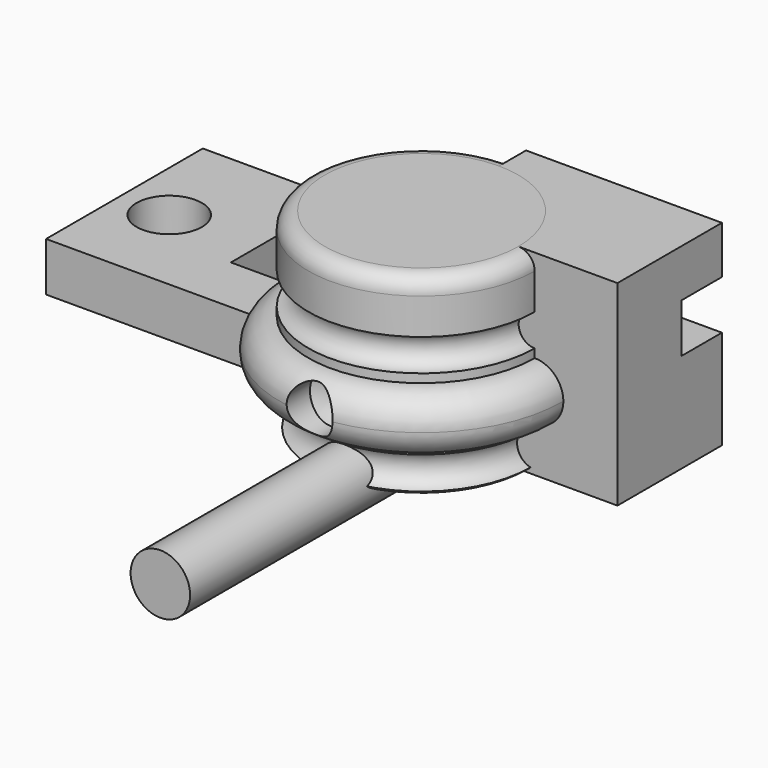
from build123d import *

# Parameters (mm, degrees)
F0_R        = 12.7
F1_DEPTH    = 76.2
F2_W        = 25.4
F2_H        = 25.4
F3_DEPTH    = 76.2
F5_DEPTH    = 76.2
F6_W        = 146.05
F6_H        = 76.2
F6_R        = 12.7
F6_W_2      = 25.4
F6_H_2      = 25.4
F7_DEPTH    = 19.05
F9_DEPTH    = 76.2
F13_D       = 17.85874
F13_DEPTH   = 55.1653280226
F13_2_D     = 17.85874
F13_2_DEPTH = 55.1653280226
F14_R       = 11.5704161796
F15_DEPTH   = 127


with BuildPart() as f1:
    # F0 (on Top) → F1 (new body)
    with BuildSketch(Plane.XY):
        Circle(F0_R)
    extrude(amount=F1_DEPTH)


with BuildPart() as f3:
    # F2 (on Top) → F3 (new body)
    with BuildSketch(Plane.XY):
        with Locations((12.7, 12.7)):
            Rectangle(F2_W, F2_H)
    extrude(amount=F3_DEPTH)


with BuildPart() as f5:
    # F4 (on Top) → F5 (new body)
    with BuildSketch(Plane.XY):
        Polygon((7.3323484187, -12.7), (7.3323484187, 12.7), (-14.6646968374, 0), align=None)
    extrude(amount=F5_DEPTH)


with BuildPart() as f7:
    # F6 (on Top) → F7 (new body)
    with BuildSketch(Plane.XY):
        with Locations((-73.025, 38.1)):
            Rectangle(F6_W, F6_H)
        with Locations((-126.6833543777, 35.687)):
            Circle(F6_R, mode=Mode.SUBTRACT)
        with Locations((-79.8557762384, 35.6842476547)):
            Rectangle(F6_W_2, F6_H_2, mode=Mode.SUBTRACT)
        Polygon((-28.6231048173, 48.387), (-3.2277432737, 47.9016011246), (-16.3457918026, 26.1512723272), align=None, mode=Mode.SUBTRACT)
    extrude(amount=F7_DEPTH)


with BuildPart() as f9:
    # F8 (on Right) → F9 (new body)
    with BuildSketch(Plane.YZ):
        Polygon((0, 76.2), (0, 0), (50.8, 0), (50.8, 38.5843238226), (31.242, 38.5843238226), (31.242, 57.6343238226), (50.8, 57.6343238226), (50.8, 76.2), align=None)
    extrude(amount=F9_DEPTH)


with BuildPart() as f11:
    # F10 (on Front) → F11 (revolve)
    with BuildSketch(Plane.XZ):
        with BuildLine():
            Line((0, 76.2), (0, 0))
            Line((0, 0), (37.6555020154, 0))
            ThreePointArc((37.6555020154, 0), (40.2366167673, 0.5482462447), (42.3720349933, 2.0983160197))
            ThreePointArc((42.3720349933, 2.0983160197), (37.2137647918, 9.5645370118), (44.0055020154, 15.5832173373))
            Line((44.0055020154, 15.5832173373), (44.0055020154, 17.7336744188))
            ThreePointArc((44.0055020154, 17.7336744188), (32.8466761081, 28.892500326), (44.0055020154, 40.0513262333))
            Line((44.0055020154, 40.0513262333), (44.0055020154, 43.4057866335))
            ThreePointArc((44.0055020154, 43.4057866335), (37.7754536569, 49.6358349919), (44.0055020154, 55.8658833504))
            Line((44.0055020154, 55.8658833504), (44.0055020154, 69.85))
            ThreePointArc((44.0055020154, 69.85), (42.1456300759, 74.3401280605), (37.6555020154, 76.2))
            Line((37.6555020154, 76.2), (0, 76.2))
        make_face()
    revolve(axis=Axis((0, 0, 38.1), (0, 0, 1)))

    # F13 (through all, one way)
    with BuildSketch(Plane(origin=(0, 0, 0), x_dir=(1, 0, 0), z_dir=(0, 1, 0))):
        with Locations((0, -29.21)):
            Circle(F13_D / 2)
    extrude(amount=-F13_DEPTH, mode=Mode.SUBTRACT)


with BuildPart() as f11b:
    # F10 (on Front) → F11, piece 2 (revolve)
    with BuildSketch(Plane.XZ):
        with BuildLine():
            Line((44.0055020154, 40.0513262333), (44.0055020154, 17.7336744188))
            ThreePointArc((44.0055020154, 17.7336744188), (51.8959834844, 21.0020188569), (55.1643279226, 28.892500326))
            ThreePointArc((55.1643279226, 28.892500326), (51.8959834844, 36.7829817951), (44.0055020154, 40.0513262333))
        make_face()
    revolve(axis=Axis((0, 0, 38.1), (0, 0, 1)))

    # F13#2 (through all, one way)
    with BuildSketch(Plane(origin=(0, 0, 0), x_dir=(1, 0, 0), z_dir=(0, 1, 0))):
        with Locations((0, -29.21)):
            Circle(F13_2_D / 2)
    extrude(amount=-F13_2_DEPTH, mode=Mode.SUBTRACT)


with BuildPart() as f15:
    # F14 (on Front) → F15 (new body)
    with BuildSketch(Plane.XZ):
        Circle(F14_R)
    extrude(amount=F15_DEPTH)


solid = Compound([f1.part, f3.part, f5.part, f7.part, f9.part, f11.part, f11b.part, f15.part])
